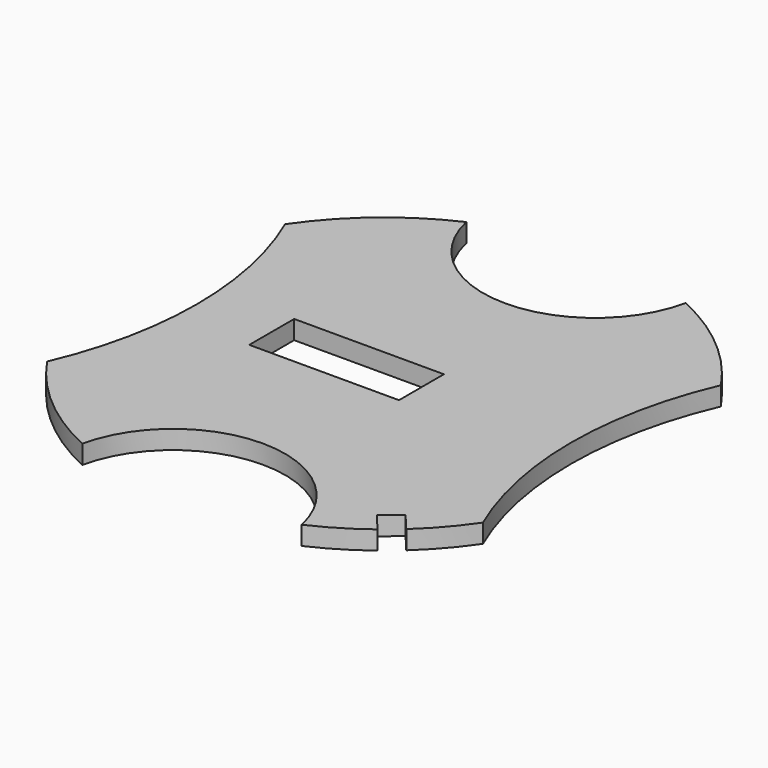
from build123d import *

# Parameters (mm, degrees)
F0_R     = 70.5
F1_DEPTH = 5
F2_W     = 40
F2_H     = 15
F3_DEPTH = 25
F5_DEPTH = 25
F7_DEPTH = 25


with BuildPart() as f1:
    # F0 (on Top) → F1 (new body)
    with BuildSketch(Plane.XY):
        Circle(F0_R)
    extrude(amount=F1_DEPTH)

    # F2 (on face) → F3 (cut)
    with BuildSketch(Plane.XY.offset(5)):
        with Locations((-10, 0)):
            Rectangle(F2_W, F2_H)
    extrude(amount=-F3_DEPTH, mode=Mode.SUBTRACT)

    # F4 (on face) → F5 (cut)
    with BuildSketch(Plane.XY.offset(5)):
        with BuildLine():
            ThreePointArc((29.3130957529, 64.1170212766), (0, 70.5), (-29.3130957529, 64.1170212766))
            ThreePointArc((-29.3130957529, 64.1170212766), (0, 40.5), (29.3130957529, 64.1170212766))
        make_face()
        with BuildLine():
            ThreePointArc((-50, 0), (-52.0801773558, 20.2905971655), (-58.2341666667, 39.7370335158))
            ThreePointArc((-58.2341666667, 39.7370335158), (-70.5, 0), (-58.2341666667, -39.7370335158))
            ThreePointArc((-58.2341666667, -39.7370335158), (-52.0801773558, -20.2905971655), (-50, 0))
        make_face()
        with BuildLine():
            ThreePointArc((29.3130957529, -64.1170212766), (0, -40.5), (-29.3130957529, -64.1170212766))
            ThreePointArc((-29.3130957529, -64.1170212766), (0, -70.5), (29.3130957529, -64.1170212766))
        make_face()
        with BuildLine():
            ThreePointArc((70.5, 0), (67.363783853, 20.7935236312), (58.2341666667, 39.7370335158))
            ThreePointArc((58.2341666667, 39.7370335158), (50, 0), (58.2341666667, -39.7370335158))
            ThreePointArc((58.2341666667, -39.7370335158), (67.363783853, -20.7935236312), (70.5, 0))
        make_face()
    extrude(amount=-F5_DEPTH, mode=Mode.SUBTRACT)

    # F6 (on face) → F7 (cut)
    with BuildSketch(Plane.XY.offset(5)):
        with BuildLine():
            ThreePointArc((42.9773455668, -55.88557746), (45.3165264829, -54.0061332399), (47.5736122255, -52.0288518018))
            Line((47.5736122255, -52.0288518018), (43.4365403493, -47.0984815306))
            Line((43.4365403493, -47.0984815306), (38.8402736906, -50.9552071887))
            Line((38.8402736906, -50.9552071887), (42.9773455668, -55.88557746))
        make_face()
    extrude(amount=-F7_DEPTH, mode=Mode.SUBTRACT)


solid = f1.part
